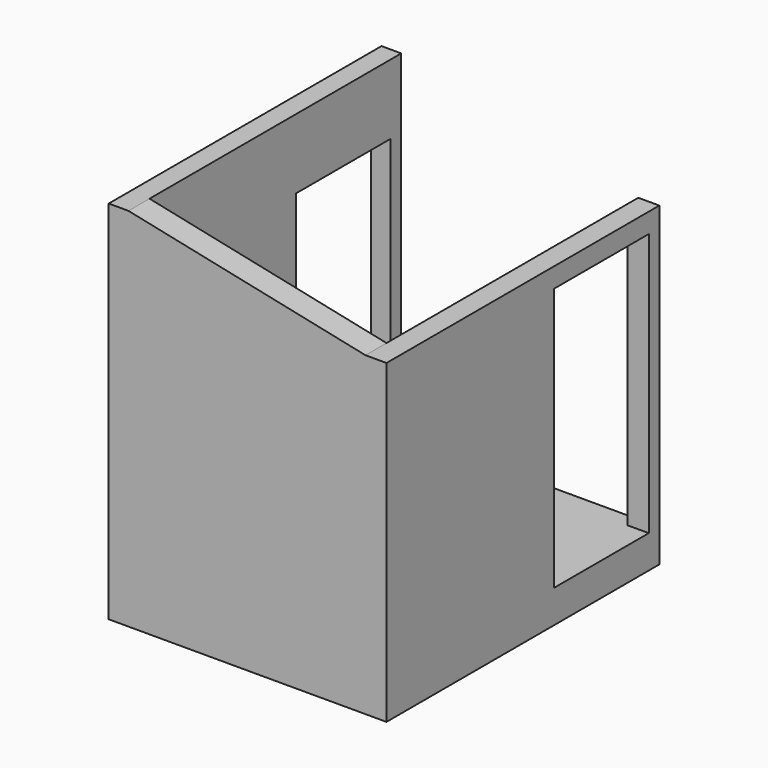
from build123d import *

# Parameters (mm, degrees)
F0_W      = 2400
F0_H      = 1000
F1_DEPTH  = 250
F2_W      = 1800
F2_H      = 2390
F3_DEPTH  = 2320
F4_W      = 900
F4_H      = 2000
F5_DEPTH  = 9400.001
F6_W      = 1000
F6_H      = 1400
F6_W_2    = 900
F6_H_2    = 400
F7_DEPTH  = 6050
F8_W      = 920
F8_H      = 920
F8_W_2    = 1000
F9_DEPTH  = 200
F10_W     = 1000
F10_H     = 1500
F11_DEPTH = 200
F12_W     = 150
F12_H     = 2660
F13_DEPTH = 280
F15_DEPTH = 950
F17_DEPTH = 50
F19_DEPTH = 2320
F21_DEPTH = 3760.001
F22_R     = 30
F23_DEPTH = 250.001
F24_W     = 1020
F24_H     = 1020
F24_W_2   = 1100
F25_DEPTH = 50
F27_DEPTH = 2570.001
F28_W     = 2110
F28_H     = 2740
F28_W_2   = 1800
F28_H_2   = 2390
F29_DEPTH = 210
F31_DEPTH = 2740
F32_W     = 3974.900246
F32_H     = 3156.905889
F32_W_2   = 2110
F32_H_2   = 2590
F33_DEPTH = 2780.001
F34_R     = 6
F35_DEPTH = 300


with BuildPart() as f1:
    # F0 (on Top) → F1 (new body)
    with BuildSketch(Plane.XY):
        Polygon((10600, 0), (0, 0), (0, -6350), (9400, -6350), (9400, -5300), (10600, -5300), align=None)
        with Locations((5100, -5650)):
            Rectangle(F0_W, F0_H, mode=Mode.SUBTRACT)
    extrude(amount=F1_DEPTH)

    # F2 (on face) → F3 (join)
    with BuildSketch(Plane.XY.offset(250)):
        Polygon((10600, 0), (0, 0), (0, -6350), (9400, -6350), (9400, -3760), (10600, -3760), align=None)
        with Locations((8340, -4955)):
            Rectangle(F2_W, F2_H, mode=Mode.SUBTRACT)
        Polygon((200, -6150), (200, -200), (3750, -200), (3750, -300), (3900, -300), (3900, -280), (4800, -280), (4800, -1180), (4950, -1180), (4950, -400), (5250, -400), (5250, -200), (7290, -200), (7290, -300), (7440, -300), (10400, -300), (10400, -3610), (7440, -3610), (7440, -2960), (7290, -2960), (7290, -6150), (3900, -6150), (3900, -5050), (3750, -5050), (3750, -6150), align=None, mode=Mode.SUBTRACT)
    extrude(amount=F3_DEPTH)

    # F4 (on face) → F5 (cut, through all)
    with BuildSketch(Plane.YZ.offset(9400)):
        with Locations((-4310, 1250)):
            Rectangle(F4_W, F4_H)
    extrude(amount=-F5_DEPTH, mode=Mode.SUBTRACT)

    # F6 (on face) → F7 (cut, through all)
    with BuildSketch(Plane.XZ.offset(6350)):
        with Locations((6740, 1500)):
            Rectangle(F6_W, F6_H)
        with Locations((3100, 1500)):
            Rectangle(F6_W, F6_H)
        with Locations((9900, 2000)):
            Rectangle(F6_W_2, F6_H_2)
    extrude(amount=-F7_DEPTH, mode=Mode.SUBTRACT)

    # F8 (on face) → F9 (cut, through all)
    with BuildSketch(Plane(origin=(10400, 0, 0), x_dir=(0, -1, 0), z_dir=(-1, 0, 0))):
        with Locations((1140, 1640)):
            Rectangle(F8_W, F8_H)
        with Locations((2360, 1640)):
            Rectangle(F8_W_2, F8_H)
    extrude(amount=-F9_DEPTH, mode=Mode.SUBTRACT)

    # F10 (on face) → F11 (cut, through all)
    with BuildSketch(Plane.YZ.offset(200)):
        with Locations((-3160, 1500)):
            Rectangle(F10_W, F10_H)
        with Locations((-2060, 1500)):
            Rectangle(F10_W, F10_H)
        with Locations((-960, 1500)):
            Rectangle(F10_W, F10_H)
    extrude(amount=-F11_DEPTH, mode=Mode.SUBTRACT)

    # F12 (on face) → F13 (join)
    with BuildSketch(Plane.XY.offset(2570)):
        with Locations((7365, -1630)):
            Rectangle(F12_W, F12_H)
    extrude(amount=-F13_DEPTH)

    # F14 (on face) → F15 (join)
    with BuildSketch(Plane(origin=(0, -6150, 0), x_dir=(-1, 0, 0), z_dir=(0, 1, 0))):
        Polygon((-6350, 540), (-6350, 250), (-6300, 250), (-6300, 490), (-5995, 490), (-5995, 780), (-5690, 780), (-5690, 1070), (-5385, 1070), (-5385, 1360), (-5080, 1360), (-5080, 1650), (-4775, 1650), (-4775, 1940), (-4470, 1940), (-4470, 2230), (-4165, 2230), (-4165, 2520), (-3900, 2520), (-3900, 2570), (-4215, 2570), (-4215, 2280), (-4520, 2280), (-4520, 1990), (-4825, 1990), (-4825, 1700), (-5130, 1700), (-5130, 1410), (-5435, 1410), (-5435, 1120), (-5740, 1120), (-5740, 830), (-6045, 830), (-6045, 540), align=None)
    extrude(amount=F15_DEPTH)

    # F16 (on face) → F17 (join)
    with BuildSketch(Plane(origin=(0, -5200, 0), x_dir=(-1, 0, 0), z_dir=(0, 1, 0))):
        Polygon((-4215, 2570), (-6350, 540), (-6350, 250), (-6300, 250), (-4165, 2230), (-3900, 2475.761124), (-3900, 2570), align=None)
    extrude(amount=F17_DEPTH)

    # F18 (on face) → F19 (join)
    with BuildSketch(Plane.XY.offset(250)):
        with BuildLine():
            Line((6005, -5150), (6045, -5150))
            ThreePointArc((6045, -5150), (6048.535534, -5148.535534), (6050, -5145))
            Line((6050, -5145), (6050, -5105))
            ThreePointArc((6050, -5105), (6048.535534, -5101.464466), (6045, -5100))
            Line((6045, -5100), (6005, -5100))
            ThreePointArc((6005, -5100), (6001.464466, -5101.464466), (6000, -5105))
            Line((6000, -5105), (6000, -5145))
            ThreePointArc((6000, -5145), (6001.464466, -5148.535534), (6005, -5150))
        make_face()
        with BuildLine():
            Line((5705, -5150), (5745, -5150))
            ThreePointArc((5745, -5150), (5748.535534, -5148.535534), (5750, -5145))
            Line((5750, -5145), (5750, -5105))
            ThreePointArc((5750, -5105), (5748.535534, -5101.464466), (5745, -5100))
            Line((5745, -5100), (5705, -5100))
            ThreePointArc((5705, -5100), (5701.464466, -5101.464466), (5700, -5105))
            Line((5700, -5105), (5700, -5145))
            ThreePointArc((5700, -5145), (5701.464466, -5148.535534), (5705, -5150))
        make_face()
        with BuildLine():
            Line((5405, -5150), (5445, -5150))
            ThreePointArc((5445, -5150), (5448.535534, -5148.535534), (5450, -5145))
            Line((5450, -5145), (5450, -5105))
            ThreePointArc((5450, -5105), (5448.535534, -5101.464466), (5445, -5100))
            Line((5445, -5100), (5405, -5100))
            ThreePointArc((5405, -5100), (5401.464466, -5101.464466), (5400, -5105))
            Line((5400, -5105), (5400, -5145))
            ThreePointArc((5400, -5145), (5401.464466, -5148.535534), (5405, -5150))
        make_face()
        with BuildLine():
            Line((5105, -5150), (5145, -5150))
            ThreePointArc((5145, -5150), (5148.535534, -5148.535534), (5150, -5145))
            Line((5150, -5145), (5150, -5105))
            ThreePointArc((5150, -5105), (5148.535534, -5101.464466), (5145, -5100))
            Line((5145, -5100), (5105, -5100))
            ThreePointArc((5105, -5100), (5101.464466, -5101.464466), (5100, -5105))
            Line((5100, -5105), (5100, -5145))
            ThreePointArc((5100, -5145), (5101.464466, -5148.535534), (5105, -5150))
        make_face()
        with BuildLine():
            Line((4805, -5150), (4845, -5150))
            ThreePointArc((4845, -5150), (4848.535534, -5148.535534), (4850, -5145))
            Line((4850, -5145), (4850, -5105))
            ThreePointArc((4850, -5105), (4848.535534, -5101.464466), (4845, -5100))
            Line((4845, -5100), (4805, -5100))
            ThreePointArc((4805, -5100), (4801.464466, -5101.464466), (4800, -5105))
            Line((4800, -5105), (4800, -5145))
            ThreePointArc((4800, -5145), (4801.464466, -5148.535534), (4805, -5150))
        make_face()
        with BuildLine():
            Line((4505, -5150), (4545, -5150))
            ThreePointArc((4545, -5150), (4548.535534, -5148.535534), (4550, -5145))
            Line((4550, -5145), (4550, -5105))
            ThreePointArc((4550, -5105), (4548.535534, -5101.464466), (4545, -5100))
            Line((4545, -5100), (4505, -5100))
            ThreePointArc((4505, -5100), (4501.464466, -5101.464466), (4500, -5105))
            Line((4500, -5105), (4500, -5145))
            ThreePointArc((4500, -5145), (4501.464466, -5148.535534), (4505, -5150))
        make_face()
    extrude(amount=F19_DEPTH)

    # F20 (on face) → F21 (cut, through all)
    with BuildSketch(Plane.XZ.offset(3760)):
        Polygon((10600, 2570), (9400, 2570), (10400, 2350), (10600, 2350), align=None)
    extrude(amount=-F21_DEPTH, mode=Mode.SUBTRACT)

    # F22 (on face) → F23 (cut, through all)
    with BuildSketch(Plane.XY.offset(250)):
        with Locations((10300, -2510)):
            Circle(F22_R)
    extrude(amount=-F23_DEPTH, mode=Mode.SUBTRACT)

    # F24 (on face) → F25 (cut)
    with BuildSketch(Plane(origin=(10400, 0, 0), x_dir=(0, -1, 0), z_dir=(-1, 0, 0))):
        with Locations((1140, 1640)):
            Rectangle(F24_W, F24_H)
        with Locations((2360, 1640)):
            Rectangle(F24_W_2, F24_H)
    extrude(amount=-F25_DEPTH, mode=Mode.SUBTRACT)

    # F26 (on face) → F27 (cut, through all)
    with BuildSketch(Plane.XY.offset(2570)):
        Polygon((10725.590706, -3401.572847), (10725.590706, 0), (0, 0), (0, -6350), (6873.535156, -6350), (6873.535156, -3401.572847), align=None)
    extrude(amount=-F27_DEPTH, mode=Mode.SUBTRACT)

    # F28 (on face) → F29 (join)
    with BuildSketch(Plane.XY.offset(2570)):
        with Locations((8345, -4980)):
            Rectangle(F28_W, F28_H)
        with Locations((8340, -4955)):
            Rectangle(F28_W_2, F28_H_2, mode=Mode.SUBTRACT)
    extrude(amount=F29_DEPTH)

    # F30 (on face) → F31 (cut, through all)
    with BuildSketch(Plane.XZ.offset(6350)):
        Polygon((7440, 2780), (9240, 2400), (9400, 2400), (9400, 2780), align=None)
    extrude(amount=-F31_DEPTH, mode=Mode.SUBTRACT)

    # F32 (on face) → F33 (cut, through all)
    with BuildSketch(Plane.XY.offset(2780)):
        with Locations((8738.929272, -4872.399449)):
            Rectangle(F32_W, F32_H)
        with Locations((8345, -5055)):
            Rectangle(F32_W_2, F32_H_2, mode=Mode.SUBTRACT)
    extrude(amount=-F33_DEPTH, mode=Mode.SUBTRACT)

    # F34 (on face) → F35 (cut)
    with BuildSketch(Plane.YZ.offset(7440)):
        with Locations((-5510, 1750)):
            Circle(F34_R)
    extrude(amount=-F35_DEPTH, mode=Mode.SUBTRACT)


solid = f1.part
